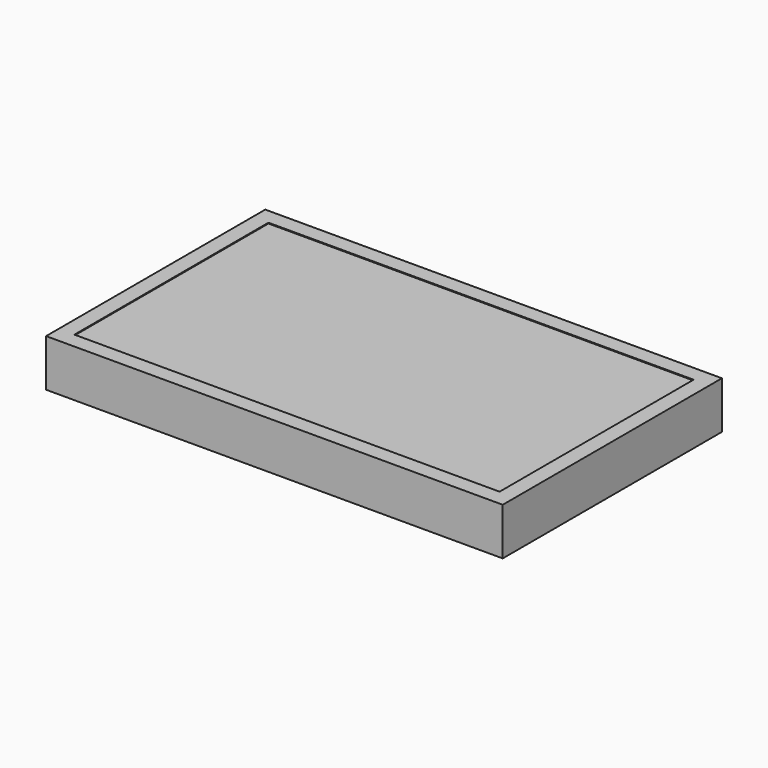
from build123d import *

# Parameters (mm, degrees)
F1_W     = 736.6
F1_H     = 441.96
F2_DEPTH = 76.2
F3_W     = 685.8
F3_H     = 391.16
F4_DEPTH = 12.7
F5_W     = 685.8
F5_H     = 391.16
F6_DEPTH = 11.43


with BuildPart() as f2:
    # F1 (on Top) → F2 (new body)
    with BuildSketch(Plane.XY):
        Rectangle(F1_W, F1_H)
    extrude(amount=F2_DEPTH)

    # F3 (on face) → F4 (cut)
    with BuildSketch(Plane.XY.offset(76.2)):
        Rectangle(F3_W, F3_H)
    extrude(amount=-F4_DEPTH, mode=Mode.SUBTRACT)


with BuildPart() as f6:
    # F5 (on face) → F6 (new body)
    with BuildSketch(Plane.XY.offset(63.5)):
        Rectangle(F5_W, F5_H)
    extrude(amount=F6_DEPTH)


solid = Compound([f2.part, f6.part])
